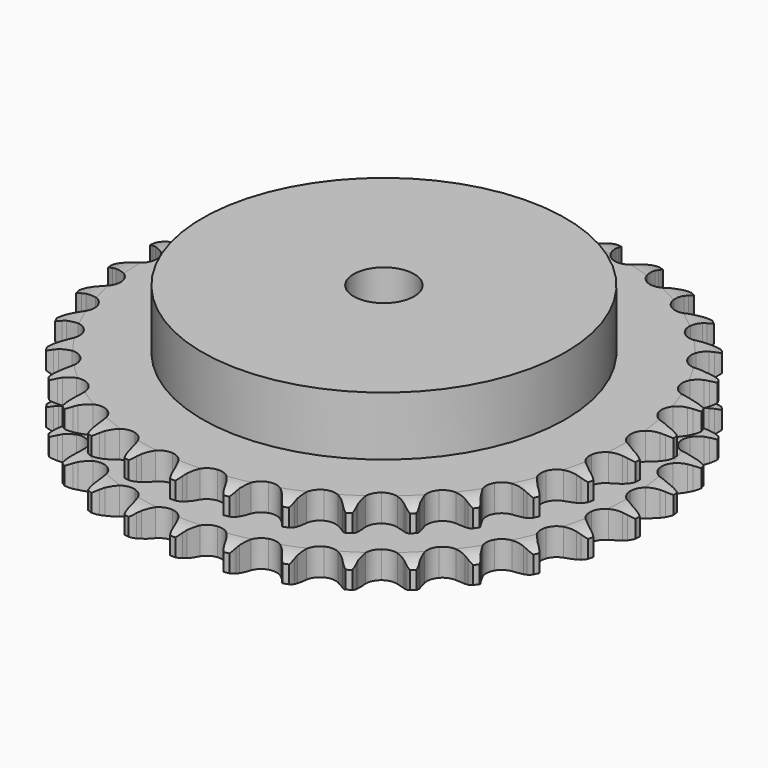
from build123d import *

# Parameters (mm, degrees)
PAD_DEPTH         = 25.5
SKETCH001_R       = 60
PAD001_DEPTH      = 45
SKETCH002_R       = 10
POCKET_DEPTH      = 0.001
POCKET_DEPTH_BACK = 45.001


with BuildPart() as part:
    # Sprocket → Pad (new body)
    with BuildSketch(Plane.XY):
        with BuildLine():
            ThreePointArc((-8.411611, 88.090371), (-7.2457, 86.680093), (-6.418665, 85.047841))
            Line((-6.418665, 85.047841), (-5.923016, 83.723235))
            ThreePointArc((-5.923016, 83.723235), (-5.137952, 82.007787), (-4.117584, 80.420986))
            ThreePointArc((-4.117584, 80.420986), (-2.302319, 78.903923), (0, 78.35987))
            ThreePointArc((0, 78.35987), (2.302319, 78.903923), (4.117584, 80.420986))
            ThreePointArc((4.117584, 80.420986), (5.137952, 82.007787), (5.923016, 83.723235))
            Line((5.923016, 83.723235), (6.418665, 85.047841))
            ThreePointArc((6.418665, 85.047841), (7.2457, 86.680093), (8.411611, 88.090371))
            ThreePointArc((8.411611, 88.090371), (9.289555, 86.484928), (9.792738, 84.725656))
            Line((9.792738, 84.725656), (10.028747, 83.331185))
            ThreePointArc((10.028747, 83.331185), (10.474973, 81.498163), (11.176598, 79.746932))
            ThreePointArc((11.176598, 79.746932), (12.671952, 77.913743), (14.829703, 76.943806))
            ThreePointArc((14.829703, 76.943806), (17.193379, 77.042309), (19.262945, 78.188416))
            Line((19.262945, 78.188416), (21.660706, 81.089309))
            ThreePointArc((21.660706, 81.089309), (22.013306, 81.702571), (22.398081, 82.296175))
            ThreePointArc((22.398081, 82.296175), (23.519076, 83.742413), (24.930814, 84.906556))
            ThreePointArc((24.930814, 84.906556), (25.489061, 83.163973), (25.650206, 81.341265))
            Line((25.650206, 81.341265), (25.618045, 79.927329))
            ThreePointArc((25.618045, 79.927329), (25.709306, 78.042983), (26.066828, 76.190616))
            ThreePointArc((26.066828, 76.190616), (27.188226, 74.107557), (29.123422, 72.746791))
            ThreePointArc((29.123422, 72.746791), (31.463025, 72.396186), (33.712094, 73.129913))
            Line((33.712094, 73.129913), (36.615521, 75.524604))
            ThreePointArc((36.615521, 75.524604), (37.07781, 76.060054), (37.567972, 76.570111))
            ThreePointArc((37.567972, 76.570111), (38.942411, 77.778064), (40.548953, 78.653996))
            ThreePointArc((40.548953, 78.653996), (40.767326, 76.837255), (40.580609, 75.016989))
            Line((40.580609, 75.016989), (40.28144, 73.634692))
            ThreePointArc((40.28144, 73.634692), (40.014437, 71.767127), (40.014936, 69.880572))
            ThreePointArc((40.014936, 69.880572), (40.721847, 67.622932), (42.364544, 65.920518))
            ThreePointArc((42.364544, 65.920518), (44.595515, 65.133476), (46.942799, 65.428305))
            Line((46.942799, 65.428305), (50.246957, 67.230243))
            ThreePointArc((50.246957, 67.230243), (50.802226, 67.668528), (51.380059, 68.076604))
            ThreePointArc((51.380059, 68.076604), (52.958267, 69.002613), (54.701547, 69.558676))
            ThreePointArc((54.701547, 69.558676), (54.572153, 67.733439), (54.044323, 65.981404))
            Line((54.044323, 65.981404), (53.488959, 64.680704))
            ThreePointArc((53.488959, 64.680704), (52.873342, 62.897419), (52.516799, 61.044863))
            ThreePointArc((52.516799, 61.044863), (52.783674, 58.694237), (54.074502, 56.711705))
            ThreePointArc((54.074502, 56.711705), (56.116208, 55.516673), (58.47687, 55.361947))
            Line((58.47687, 55.361947), (62.062336, 56.506006))
            ThreePointArc((62.062336, 56.506006), (62.690516, 56.831285), (63.335137, 57.122631))
            ThreePointArc((63.335137, 57.122631), (65.060072, 57.733228), (66.877085, 57.949324))
            ThreePointArc((66.877085, 57.949324), (66.404601, 56.18156), (65.554735, 54.561078))
            Line((65.554735, 54.561078), (64.763247, 53.388988))
            ThreePointArc((64.763247, 53.388988), (63.821266, 51.754435), (63.120568, 50.002833))
            ThreePointArc((63.120568, 50.002833), (62.937762, 47.644179), (63.830066, 45.453184))
            ThreePointArc((63.830066, 45.453184), (65.608714, 43.893352), (67.897434, 43.294664))
            Line((67.897434, 43.294664), (71.63462, 43.739494))
            ThreePointArc((71.63462, 43.739494), (72.313008, 43.940012), (73.001117, 44.104097))
            ThreePointArc((73.001117, 44.104097), (74.810437, 44.377214), (76.635511, 44.245533))
            ThreePointArc((76.635511, 44.245533), (75.837013, 42.599132), (74.695827, 41.168773))
            Line((74.695827, 41.168773), (73.696823, 40.167654))
            ThreePointArc((73.696823, 40.167654), (72.462524, 38.740911), (71.442996, 37.153571))
            ThreePointArc((71.442996, 37.153571), (70.817115, 34.872137), (71.278645, 32.551867))
            ThreePointArc((71.278645, 32.551867), (72.729951, 30.683611), (74.864008, 29.662599))
            Line((74.864008, 29.662599), (78.617843, 29.392124))
            ThreePointArc((78.617843, 29.392124), (79.32192, 29.460632), (80.028647, 29.491527))
            ThreePointArc((80.028647, 29.491527), (81.856958, 29.417292), (83.624129, 28.942593))
            ThreePointArc((83.624129, 28.942593), (82.528479, 27.477061), (81.137218, 26.288522))
            Line((81.137218, 26.288522), (79.966804, 25.494556))
            ThreePointArc((79.966804, 25.494556), (78.484798, 24.32719), (77.183287, 22.961482))
            ThreePointArc((77.183287, 22.961482), (76.136953, 20.839725), (76.151029, 18.47404))
            ThreePointArc((76.151029, 18.47404), (77.222537, 16.364884), (79.124802, 14.95845))
            Line((79.124802, 14.95845), (82.759612, 13.982445))
            ThreePointArc((82.759612, 13.982445), (83.463931, 13.916467), (84.163733, 13.813055))
            ThreePointArc((84.163733, 13.813055), (85.944955, 13.394152), (87.590354, 12.593592))
            ThreePointArc((87.590354, 12.593592), (86.23715, 11.361898), (84.646098, 10.458134))
            Line((84.646098, 10.458134), (83.346576, 9.900019))
            ThreePointArc((83.346576, 9.900019), (81.670426, 9.03422), (80.133974, 7.939505))
            ThreePointArc((80.133974, 7.939505), (78.705003, 6.054111), (78.271115, 3.728513))
            ThreePointArc((78.271115, 3.728513), (78.9241, 1.454688), (80.525819, -0.286335))
            Line((80.525819, -0.286335), (83.910233, -1.932596))
            ThreePointArc((83.910233, -1.932596), (84.589338, -2.130674), (85.256923, -2.364656))
            ThreePointArc((85.256923, -2.364656), (86.926678, -3.113088), (88.390835, -4.210574))
            ThreePointArc((88.390835, -4.210574), (86.828985, -5.163915), (85.095648, -5.750237))
            Line((85.095648, -5.750237), (83.713986, -6.05233))
            ThreePointArc((83.713986, -6.05233), (81.904273, -6.58527), (80.188409, -7.369427))
            ThreePointArc((80.188409, -7.369427), (78.428449, -8.950314), (77.56228, -11.151772))
            ThreePointArc((77.56228, -11.151772), (77.77314, -13.508084), (79.016423, -15.520772))
            Line((79.016423, -15.520772), (82.02812, -17.777787))
            ThreePointArc((82.02812, -17.777787), (82.657465, -18.100807), (83.268705, -18.456902))
            ThreePointArc((83.268705, -18.456902), (84.766644, -19.507812), (85.996641, -20.862559))
            ThreePointArc((85.996641, -20.862559), (84.282595, -21.503089), (82.469619, -21.75078))
            Line((82.469619, -21.75078), (81.055754, -21.785933))
            ThreePointArc((81.055754, -21.785933), (79.177885, -21.966751), (77.344627, -22.412008))
            ThreePointArc((77.344627, -22.412008), (75.317286, -23.631252), (74.050142, -25.629003))
            ThreePointArc((74.050142, -25.629003), (73.811257, -27.982639), (74.651168, -30.194248))
            Line((74.651168, -30.194248), (77.181297, -32.980443))
            ThreePointArc((77.181297, -32.980443), (77.738137, -33.41673), (78.270939, -33.882068))
            ThreePointArc((78.270939, -33.882068), (79.542923, -35.197474), (80.494304, -36.760517))
            ThreePointArc((80.494304, -36.760517), (78.690012, -37.065087), (76.862923, -36.965193))
            Line((76.862923, -36.965193), (75.467956, -36.732135))
            ThreePointArc((75.467956, -36.732135), (73.589803, -36.554296), (71.705409, -36.644561))
            ThreePointArc((71.705409, -36.644561), (69.483961, -37.458095), (67.861638, -39.179935))
            ThreePointArc((67.861638, -39.179935), (67.181642, -41.445828), (67.587825, -43.776425))
            Line((67.587825, -43.776425), (69.54494, -46.9911))
            ThreePointArc((69.54494, -46.9911), (70.00915, -47.524886), (70.444258, -48.082648))
            ThreePointArc((70.444258, -48.082648), (71.444313, -49.615006), (72.082694, -51.329854))
            ThreePointArc((72.082694, -51.329854), (70.253368, -51.287455), (68.478201, -50.843588))
            Line((68.478201, -50.843588), (67.15255, -50.350742))
            ThreePointArc((67.15255, -50.350742), (65.341993, -49.820674), (63.47457, -49.552684))
            ThreePointArc((63.47457, -49.552684), (61.139304, -49.931104), (59.220439, -51.314802))
            ThreePointArc((59.220439, -51.314802), (58.123908, -53.411057), (58.081682, -55.776408))
            Line((58.081682, -55.776408), (59.395048, -59.303376))
            ThreePointArc((59.395048, -59.303376), (59.74985, -59.915368), (60.071538, -60.545395))
            ThreePointArc((60.071538, -60.545395), (60.763519, -62.239324), (61.065827, -64.043996))
            ThreePointArc((61.065827, -64.043996), (59.277583, -63.656161), (57.618499, -62.884363))
            Line((57.618499, -62.884363), (56.410075, -62.149542))
            ThreePointArc((56.410075, -62.149542), (54.732553, -61.286403), (52.949595, -60.669843))
            ThreePointArc((52.949595, -60.669843), (50.584914, -60.599473), (48.438858, -61.595019))
            ThreePointArc((48.438858, -61.595019), (46.965424, -63.445872), (46.476316, -65.760486))
            Line((46.476316, -65.760486), (47.098465, -69.472274))
            ThreePointArc((47.098465, -69.472274), (47.331034, -70.140352), (47.527675, -70.819874))
            ThreePointArc((47.527675, -70.819874), (47.886574, -72.61415), (47.841882, -74.443421))
            ThreePointArc((47.841882, -74.443421), (46.159352, -73.724168), (44.676314, -72.652333))
            Line((44.676314, -72.652333), (43.628794, -71.702096))
            ThreePointArc((43.628794, -71.702096), (42.144937, -70.537082), (40.510883, -69.594237))
            ThreePointArc((40.510883, -69.594237), (38.202253, -69.07762), (35.906571, -69.649031))
            ThreePointArc((35.906571, -69.649031), (34.109487, -71.187587), (33.191174, -73.367809))
            Line((33.191174, -73.367809), (33.09962, -77.130262))
            ThreePointArc((33.09962, -77.130262), (33.201552, -77.830282), (33.266039, -78.534738))
            ThreePointArc((33.266039, -78.534738), (33.278883, -80.364511), (32.888807, -82.152268))
            ThreePointArc((32.888807, -82.152268), (31.372802, -81.127591), (30.11941, -79.794459))
            Line((30.11941, -79.794459), (29.270654, -78.663149))
            ThreePointArc((29.270654, -78.663149), (28.034092, -77.238367), (26.608003, -76.003313))
            ThreePointArc((26.608003, -76.003313), (24.438863, -75.059121), (22.076527, -75.185745))
            ThreePointArc((22.076527, -75.185745), (20.020745, -76.356398), (18.706417, -78.323428))
            Line((18.706417, -78.323428), (17.904469, -82.000562))
            ThreePointArc((17.904469, -82.000562), (17.872079, -82.707222), (17.802081, -83.411153))
            ThreePointArc((17.802081, -83.411153), (17.468406, -85.21029), (16.747044, -86.891917))
            ThreePointArc((16.747044, -86.891917), (15.452357, -85.598851), (14.473912, -84.052605))
            Line((14.473912, -84.052605), (13.854596, -82.781111))
            ThreePointArc((13.854596, -82.781111), (12.910023, -81.148056), (11.74344, -79.665432))
            ThreePointArc((11.74344, -79.665432), (9.792189, -78.32779), (7.448579, -78.005051))
            ThreePointArc((7.448579, -78.005051), (5.208401, -78.765489), (3.545562, -80.448235))
            Line((3.545562, -80.448235), (2.062203, -83.907148))
            ThreePointArc((2.062203, -83.907148), (1.896662, -84.594908), (1.69471, -85.272871))
            ThreePointArc((1.69471, -85.272871), (1.026576, -86.976346), (0, -88.491065))
            ThreePointArc((0, -88.491065), (-1.026576, -86.976346), (-1.69471, -85.272871))
            Line((-1.69471, -85.272871), (-2.062203, -83.907148))
            ThreePointArc((-2.062203, -83.907148), (-2.680649, -82.124843), (-3.545562, -80.448235))
            ThreePointArc((-3.545562, -80.448235), (-5.208401, -78.765489), (-7.448579, -78.005051))
            ThreePointArc((-7.448579, -78.005051), (-9.792189, -78.32779), (-11.74344, -79.665432))
            Line((-11.74344, -79.665432), (-13.854596, -82.781111))
            ThreePointArc((-13.854596, -82.781111), (-14.147305, -83.425114), (-14.473912, -84.052605))
            ThreePointArc((-14.473912, -84.052605), (-15.452357, -85.598851), (-16.747044, -86.891917))
            ThreePointArc((-16.747044, -86.891917), (-17.468406, -85.21029), (-17.802081, -83.411153))
            Line((-17.802081, -83.411153), (-17.904469, -82.000562))
            ThreePointArc((-17.904469, -82.000562), (-18.174435, -80.133424), (-18.706417, -78.323428))
            ThreePointArc((-18.706417, -78.323428), (-20.020745, -76.356398), (-22.076527, -75.185745))
            ThreePointArc((-22.076527, -75.185745), (-24.438863, -75.059121), (-26.608003, -76.003313))
            Line((-26.608003, -76.003313), (-29.270654, -78.663149))
            ThreePointArc((-29.270654, -78.663149), (-29.679951, -79.240118), (-30.11941, -79.794459))
            ThreePointArc((-30.11941, -79.794459), (-31.372802, -81.127591), (-32.888807, -82.152268))
            ThreePointArc((-32.888807, -82.152268), (-33.278883, -80.364511), (-33.266039, -78.534738))
            Line((-33.266039, -78.534738), (-33.09962, -77.130262))
            ThreePointArc((-33.09962, -77.130262), (-33.011349, -75.245774), (-33.191174, -73.367809))
            ThreePointArc((-33.191174, -73.367809), (-34.109487, -71.187587), (-35.906571, -69.649031))
            ThreePointArc((-35.906571, -69.649031), (-38.202253, -69.07762), (-40.510883, -69.594237))
            Line((-40.510883, -69.594237), (-43.628794, -71.702096))
            ThreePointArc((-43.628794, -71.702096), (-44.139887, -72.191178), (-44.676314, -72.652333))
            ThreePointArc((-44.676314, -72.652333), (-46.159352, -73.724168), (-47.841882, -74.443421))
            ThreePointArc((-47.841882, -74.443421), (-47.886574, -72.61415), (-47.527675, -70.819874))
            Line((-47.527675, -70.819874), (-47.098465, -69.472274))
            ThreePointArc((-47.098465, -69.472274), (-46.655147, -67.638546), (-46.476316, -65.760486))
            ThreePointArc((-46.476316, -65.760486), (-46.965424, -63.445872), (-48.438858, -61.595019))
            ThreePointArc((-48.438858, -61.595019), (-50.584914, -60.599473), (-52.949595, -60.669843))
            Line((-52.949595, -60.669843), (-56.410075, -62.149542))
            ThreePointArc((-56.410075, -62.149542), (-57.004492, -62.533061), (-57.618499, -62.884363))
            ThreePointArc((-57.618499, -62.884363), (-59.277583, -63.656161), (-61.065827, -64.043996))
            ThreePointArc((-61.065827, -64.043996), (-60.763519, -62.239324), (-60.071538, -60.545395))
            Line((-60.071538, -60.545395), (-59.395048, -59.303376))
            ThreePointArc((-59.395048, -59.303376), (-58.612707, -57.586684), (-58.081682, -55.776408))
            ThreePointArc((-58.081682, -55.776408), (-58.123908, -53.411057), (-59.220439, -51.314802))
            ThreePointArc((-59.220439, -51.314802), (-61.139304, -49.931104), (-63.47457, -49.552684))
            Line((-63.47457, -49.552684), (-67.15255, -50.350742))
            ThreePointArc((-67.15255, -50.350742), (-67.808806, -50.614836), (-68.478201, -50.843588))
            ThreePointArc((-68.478201, -50.843588), (-70.253368, -51.287455), (-72.082694, -51.329854))
            ThreePointArc((-72.082694, -51.329854), (-71.444313, -49.615006), (-70.444258, -48.082648))
            Line((-70.444258, -48.082648), (-69.54494, -46.9911))
            ThreePointArc((-69.54494, -46.9911), (-68.451851, -45.45349), (-67.587825, -43.776425))
            ThreePointArc((-67.587825, -43.776425), (-67.181642, -41.445828), (-67.861638, -39.179935))
            ThreePointArc((-67.861638, -39.179935), (-69.483961, -37.458095), (-71.705409, -36.644561))
            Line((-71.705409, -36.644561), (-75.467956, -36.732135))
            ThreePointArc((-75.467956, -36.732135), (-76.162333, -36.867259), (-76.862923, -36.965193))
            ThreePointArc((-76.862923, -36.965193), (-78.690012, -37.065087), (-80.494304, -36.760517))
            ThreePointArc((-80.494304, -36.760517), (-79.542923, -35.197474), (-78.270939, -33.882068))
            Line((-78.270939, -33.882068), (-77.181297, -32.980443))
            ThreePointArc((-77.181297, -32.980443), (-75.816966, -31.677489), (-74.651168, -30.194248))
            ThreePointArc((-74.651168, -30.194248), (-73.811257, -27.982639), (-74.050142, -25.629003))
            ThreePointArc((-74.050142, -25.629003), (-75.317286, -23.631252), (-77.344627, -22.412008))
            Line((-77.344627, -22.412008), (-81.055754, -21.785933))
            ThreePointArc((-81.055754, -21.785933), (-81.763155, -21.787204), (-82.469619, -21.75078))
            ThreePointArc((-82.469619, -21.75078), (-84.282595, -21.503089), (-85.996641, -20.862559))
            ThreePointArc((-85.996641, -20.862559), (-84.766644, -19.507812), (-83.268705, -18.456902))
            Line((-83.268705, -18.456902), (-82.02812, -17.777787))
            ThreePointArc((-82.02812, -17.777787), (-80.441859, -16.75658), (-79.016423, -15.520772))
            ThreePointArc((-79.016423, -15.520772), (-77.77314, -13.508084), (-77.56228, -11.151772))
            ThreePointArc((-77.56228, -11.151772), (-78.428449, -8.950314), (-80.188409, -7.369427))
            Line((-80.188409, -7.369427), (-83.713986, -6.05233))
            ThreePointArc((-83.713986, -6.05233), (-84.408844, -5.919702), (-85.095648, -5.750237))
            ThreePointArc((-85.095648, -5.750237), (-86.828985, -5.163915), (-88.390835, -4.210574))
            ThreePointArc((-88.390835, -4.210574), (-86.926678, -3.113088), (-85.256923, -2.364656))
            Line((-85.256923, -2.364656), (-83.910233, -1.932596))
            ThreePointArc((-83.910233, -1.932596), (-82.159373, -1.230045), (-80.525819, -0.286335))
            ThreePointArc((-80.525819, -0.286335), (-78.9241, 1.454688), (-78.271115, 3.728513))
            ThreePointArc((-78.271115, 3.728513), (-78.705003, 6.054111), (-80.133974, 7.939505))
            Line((-80.133974, 7.939505), (-83.346576, 9.900019))
            ThreePointArc((-83.346576, 9.900019), (-84.003777, 10.161754), (-84.646098, 10.458134))
            ThreePointArc((-84.646098, 10.458134), (-86.23715, 11.361898), (-87.590354, 12.593592))
            ThreePointArc((-87.590354, 12.593592), (-85.944955, 13.394152), (-84.163733, 13.813055))
            Line((-84.163733, 13.813055), (-82.759612, 13.982445))
            ThreePointArc((-82.759612, 13.982445), (-80.907434, 14.340947), (-79.124802, 14.95845))
            ThreePointArc((-79.124802, 14.95845), (-77.222537, 16.364884), (-76.151029, 18.47404))
            ThreePointArc((-76.151029, 18.47404), (-76.136953, 20.839725), (-77.183287, 22.961482))
            Line((-77.183287, 22.961482), (-79.966804, 25.494556))
            ThreePointArc((-79.966804, 25.494556), (-80.562595, 25.875937), (-81.137218, 26.288522))
            ThreePointArc((-81.137218, 26.288522), (-82.528479, 27.477061), (-83.624129, 28.942593))
            ThreePointArc((-83.624129, 28.942593), (-81.856958, 29.417292), (-80.028647, 29.491527))
            Line((-80.028647, 29.491527), (-78.617843, 29.392124))
            ThreePointArc((-78.617843, 29.392124), (-76.731289, 29.39362), (-74.864008, 29.662599))
            ThreePointArc((-74.864008, 29.662599), (-72.729951, 30.683611), (-71.278645, 32.551867))
            ThreePointArc((-71.278645, 32.551867), (-70.817115, 34.872137), (-71.442996, 37.153571))
            Line((-71.442996, 37.153571), (-73.696823, 40.167654))
            ThreePointArc((-73.696823, 40.167654), (-74.209671, 40.654897), (-74.695827, 41.168773))
            ThreePointArc((-74.695827, 41.168773), (-75.837013, 42.599132), (-76.635511, 44.245533))
            ThreePointArc((-76.635511, 44.245533), (-74.810437, 44.377214), (-73.001117, 44.104097))
            Line((-73.001117, 44.104097), (-71.63462, 43.739494))
            ThreePointArc((-71.63462, 43.739494), (-69.781876, 43.383931), (-67.897434, 43.294664))
            ThreePointArc((-67.897434, 43.294664), (-65.608714, 43.893352), (-63.830066, 45.453184))
            ThreePointArc((-63.830066, 45.453184), (-62.937762, 47.644179), (-63.120568, 50.002833))
            Line((-63.120568, 50.002833), (-64.763247, 53.388988))
            ThreePointArc((-64.763247, 53.388988), (-65.174615, 53.964482), (-65.554735, 54.561078))
            ThreePointArc((-65.554735, 54.561078), (-66.404601, 56.18156), (-66.877085, 57.949324))
            ThreePointArc((-66.877085, 57.949324), (-65.060072, 57.733228), (-63.335137, 57.122631))
            Line((-63.335137, 57.122631), (-62.062336, 56.506006))
            ThreePointArc((-62.062336, 56.506006), (-60.310363, 55.806234), (-58.47687, 55.361947))
            ThreePointArc((-58.47687, 55.361947), (-56.116208, 55.516673), (-54.074502, 56.711705))
            ThreePointArc((-54.074502, 56.711705), (-52.783674, 58.694237), (-52.516799, 61.044863))
            Line((-52.516799, 61.044863), (-53.488959, 64.680704))
            ThreePointArc((-53.488959, 64.680704), (-53.78398, 65.323651), (-54.044323, 65.981404))
            ThreePointArc((-54.044323, 65.981404), (-54.572153, 67.733439), (-54.701547, 69.558676))
            ThreePointArc((-54.701547, 69.558676), (-52.958267, 69.002613), (-51.380059, 68.076604))
            Line((-51.380059, 68.076604), (-50.246957, 67.230243))
            ThreePointArc((-50.246957, 67.230243), (-48.659077, 66.211554), (-46.942799, 65.428305))
            ThreePointArc((-46.942799, 65.428305), (-44.595515, 65.133476), (-42.364544, 65.920518))
            ThreePointArc((-42.364544, 65.920518), (-40.721847, 67.622932), (-40.014936, 69.880572))
            Line((-40.014936, 69.880572), (-40.28144, 73.634692))
            ThreePointArc((-40.28144, 73.634692), (-40.449451, 74.321852), (-40.580609, 75.016989))
            ThreePointArc((-40.580609, 75.016989), (-40.767326, 76.837255), (-40.548953, 78.653996))
            ThreePointArc((-40.548953, 78.653996), (-38.942411, 77.778064), (-37.567972, 76.570111))
            Line((-37.567972, 76.570111), (-36.615521, 75.524604))
            ThreePointArc((-36.615521, 75.524604), (-35.249125, 74.223816), (-33.712094, 73.129913))
            ThreePointArc((-33.712094, 73.129913), (-31.463025, 72.396186), (-29.123422, 72.746791))
            ThreePointArc((-29.123422, 72.746791), (-27.188226, 74.107557), (-26.066828, 76.190616))
            Line((-26.066828, 76.190616), (-25.618045, 79.927329))
            ThreePointArc((-25.618045, 79.927329), (-25.652974, 80.633869), (-25.650206, 81.341265))
            ThreePointArc((-25.650206, 81.341265), (-25.489061, 83.163973), (-24.930814, 84.906556))
            ThreePointArc((-24.930814, 84.906556), (-23.519076, 83.742413), (-22.398081, 82.296175))
            Line((-22.398081, 82.296175), (-21.660706, 81.089309))
            ThreePointArc((-21.660706, 81.089309), (-20.565178, 79.553435), (-19.262945, 78.188416))
            ThreePointArc((-19.262945, 78.188416), (-17.193379, 77.042309), (-14.829703, 76.943806))
            ThreePointArc((-14.829703, 76.943806), (-12.671952, 77.913743), (-11.176598, 79.746932))
            Line((-11.176598, 79.746932), (-10.028747, 83.331185))
            ThreePointArc((-10.028747, 83.331185), (-9.929331, 84.031567), (-9.792738, 84.725656))
            ThreePointArc((-9.792738, 84.725656), (-9.289555, 86.484928), (-8.411611, 88.090371))
        make_face()
    extrude(amount=PAD_DEPTH)

    # Sketch → Groove (revolve, cut)
    with BuildSketch(Plane.XZ):
        with BuildLine():
            ThreePointArc((80.275762, 0), (83.85347, 0.405129), (87.25, 1.6))
            Line((87.25, 1.6), (87.25, 7.4))
            ThreePointArc((87.25, 7.4), (83.85347, 8.594871), (80.275762, 9))
            Line((60, 9), (80.275762, 9))
            Line((60, 16.5), (60, 9))
            Line((80.275762, 16.5), (60, 16.5))
            ThreePointArc((80.275762, 16.5), (83.85347, 16.905129), (87.25, 18.1))
            Line((87.25, 18.1), (87.25, 23.9))
            ThreePointArc((87.25, 23.9), (83.85347, 25.094871), (80.275762, 25.5))
            Line((80.275762, 25.5), (90.275762, 25.5))
            Line((90.275762, 25.5), (90.275762, 0))
            Line((80.275762, 0), (90.275762, 0))
        make_face()
    revolve(axis=Axis((0, 0, 0), (0, 0, 1)), mode=Mode.SUBTRACT)

    # Sketch001 → Pad001 (join)
    with BuildSketch(Plane.XY):
        Circle(SKETCH001_R)
    extrude(amount=PAD001_DEPTH)

    # Sketch002 → Pocket (cut, two sides)
    with BuildSketch(Plane.XY) as pocket_sk:
        Circle(SKETCH002_R)
    extrude(amount=-POCKET_DEPTH, mode=Mode.SUBTRACT)
    extrude(pocket_sk.sketch, amount=POCKET_DEPTH_BACK, mode=Mode.SUBTRACT)


solid = part.part
